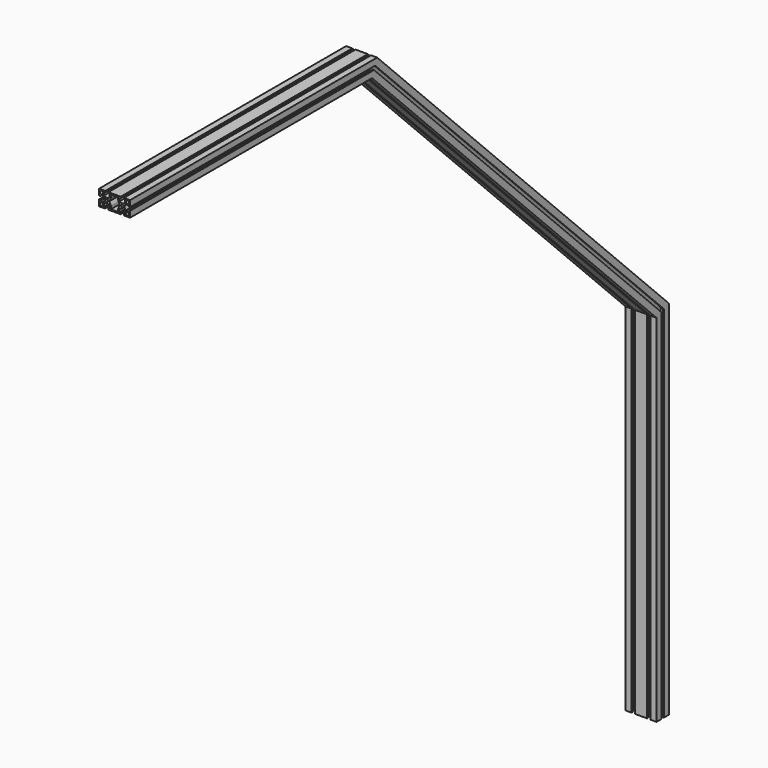
from build123d import *

# Parameters (mm, degrees)
F0_R   = 3
F0_R_2 = 2.5


with BuildPart() as f2:
    # F2: sweep along a path in F1
    with BuildLine(Plane.YZ) as f2_path:
        Line((-15, 0), (-15, 688))
        Line((-15, 688), (-703, 1376))
        Line((-703, 1376), (-1288, 1376))
    # F0 (on Top) → F2 (sweep)
    with BuildSketch(Plane.XY):
        with BuildLine():
            Line((18.15, -15), (30, -15))
            Line((30, -15), (30, -3.15))
            Line((30, -3.15), (27.5, -3.15))
            Line((27.5, -3.15), (27.5, -5.15))
            Line((27.5, -5.15), (21.5477069044, -5.15))
            ThreePointArc((21.5477069044, -5.15), (19.5, 0), (21.5477069044, 5.15))
            Line((21.5477069044, 5.15), (27.5, 5.15))
            Line((27.5, 5.15), (27.5, 3.15))
            Line((27.5, 3.15), (30, 3.15))
            Line((30, 3.15), (30, 15))
            Line((30, 15), (18.15, 15))
            Line((18.15, 15), (18.15, 12.5))
            Line((18.15, 12.5), (20.15, 12.5))
            Line((20.15, 12.5), (20.15, 6.5477069044))
            ThreePointArc((20.15, 6.5477069044), (15, 4.5), (9.85, 6.5477069044))
            Line((9.85, 6.5477069044), (9.85, 12.5))
            Line((9.85, 12.5), (11.85, 12.5))
            Line((11.85, 12.5), (11.85, 15))
            Line((11.85, 15), (-11.85, 15))
            Line((-11.85, 15), (-11.85, 12.5))
            Line((-11.85, 12.5), (-9.85, 12.5))
            Line((-9.85, 12.5), (-9.85, 6.5477069044))
            ThreePointArc((-9.85, 6.5477069044), (-15, 4.5), (-20.15, 6.5477069044))
            Line((-20.15, 6.5477069044), (-20.15, 12.5))
            Line((-20.15, 12.5), (-18.15, 12.5))
            Line((-18.15, 12.5), (-18.15, 15))
            Line((-18.15, 15), (-30, 15))
            Line((-30, 15), (-30, 3.15))
            Line((-30, 3.15), (-27.5, 3.15))
            Line((-27.5, 3.15), (-27.5, 5.15))
            Line((-27.5, 5.15), (-21.5477069044, 5.15))
            ThreePointArc((-21.5477069044, 5.15), (-19.5, 0), (-21.5477069044, -5.15))
            Line((-21.5477069044, -5.15), (-27.5, -5.15))
            Line((-27.5, -5.15), (-27.5, -3.15))
            Line((-27.5, -3.15), (-30, -3.15))
            Line((-30, -3.15), (-30, -15))
            Line((-30, -15), (-18.15, -15))
            Line((-18.15, -15), (-18.15, -12.5))
            Line((-18.15, -12.5), (-20.15, -12.5))
            Line((-20.15, -12.5), (-20.15, -6.5477069044))
            ThreePointArc((-20.15, -6.5477069044), (-15, -4.5), (-9.85, -6.5477069044))
            Line((-9.85, -6.5477069044), (-9.85, -12.5))
            Line((-9.85, -12.5), (-11.85, -12.5))
            Line((-11.85, -12.5), (-11.85, -15))
            Line((-11.85, -15), (11.85, -15))
            Line((11.85, -15), (11.85, -12.5))
            Line((11.85, -12.5), (9.85, -12.5))
            Line((9.85, -12.5), (9.85, -6.5477069044))
            ThreePointArc((9.85, -6.5477069044), (15, -4.5), (20.15, -6.5477069044))
            Line((20.15, -6.5477069044), (20.15, -12.5))
            Line((20.15, -12.5), (18.15, -12.5))
            Line((18.15, -12.5), (18.15, -15))
        make_face()
        with Locations((-25, -10)):
            Circle(F0_R, mode=Mode.SUBTRACT)
        with Locations((25, -10)):
            Circle(F0_R, mode=Mode.SUBTRACT)
        with Locations((-15, 0)):
            Circle(F0_R_2, mode=Mode.SUBTRACT)
        with Locations((-25, 10)):
            Circle(F0_R, mode=Mode.SUBTRACT)
        Polygon((-7, 7), (-7, 12.5), (0, 12.5), (7, 12.5), (7, 7), (10, 0), (7, -7), (7, -12.5), (0, -12.5), (-7, -12.5), (-7, -7), (-10, 0), align=None, mode=Mode.SUBTRACT)
        with Locations((15, 0)):
            Circle(F0_R_2, mode=Mode.SUBTRACT)
        with Locations((25, 10)):
            Circle(F0_R, mode=Mode.SUBTRACT)
    sweep(path=f2_path.line, transition=Transition.RIGHT)


solid = f2.part
